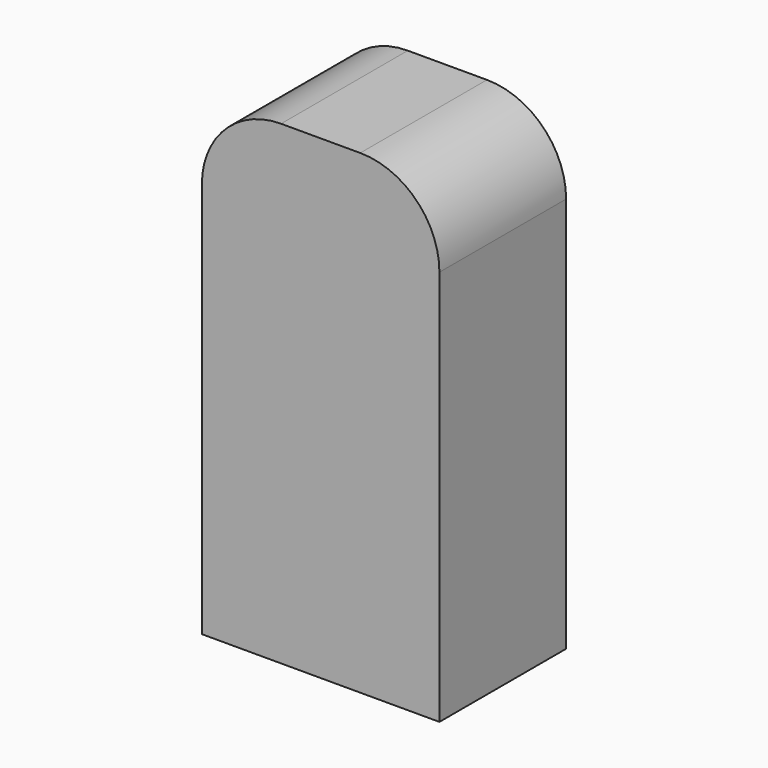
from build123d import *

# Parameters (mm, degrees)
F0_W     = 15
F0_H     = 30
F1_DEPTH = 10
F3_D     = 3.3
F3_DEPTH = 10
F3_TIP   = 0.9914200214
F4_R     = 5


with BuildPart() as f1:
    # F0 (on Front) → F1 (new body)
    with BuildSketch(Plane.XZ):
        with Locations((0, 15)):
            Rectangle(F0_W, F0_H)
    extrude(amount=F1_DEPTH)

    # F3
    with Locations(Plane(origin=(0, 0, 0), x_dir=(1, 0, 0), z_dir=(0, 0, -1))):
        with Locations((-4.5, 5), (4.5, 5)):
            Hole(F3_D / 2, depth=F3_DEPTH)
            with Locations((0, 0, -(F3_DEPTH + F3_TIP / 2))):  # 118° drill point
                Cone(0, F3_D / 2, F3_TIP, mode=Mode.SUBTRACT)

    # F4
    f4_edges = [f1.edges().sort_by_distance(p)[0] for p in [
        (-7.5, -5, 30),
        (7.5, -5, 30),
    ]]
    fillet(f4_edges, radius=F4_R)


solid = f1.part
